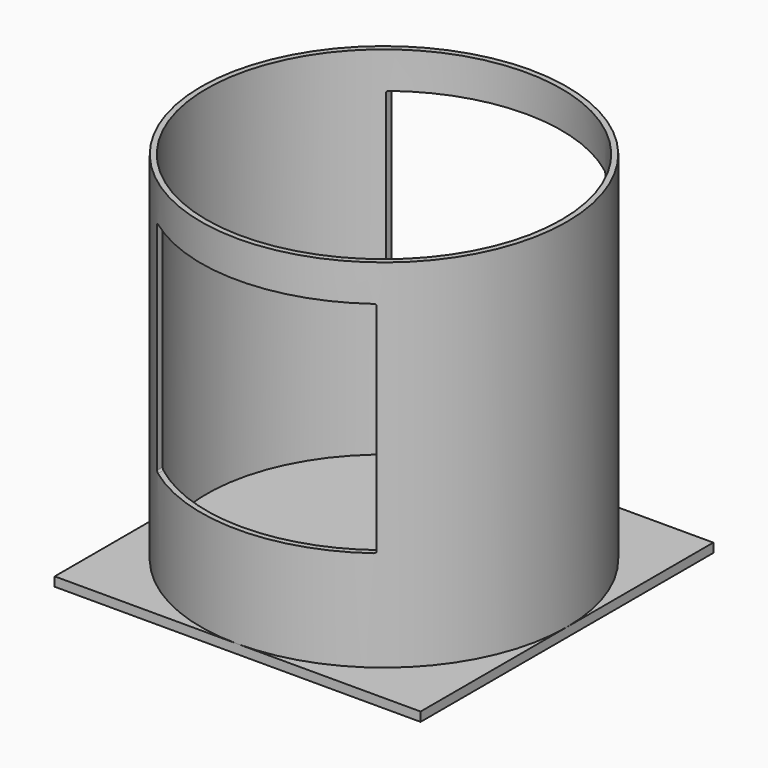
from build123d import *

# Parameters (mm, degrees)
F0_R     = 500
F0_R_2   = 485
F2_DEPTH = 1000
F5_DEPTH = 500
F3_W     = 1000
F3_H     = 1000
F6_DEPTH = 25


with BuildPart() as f2:
    # F0 (on Top) → F2 (new body)
    with BuildSketch(Plane.XY):
        Circle(F0_R)
        Circle(F0_R_2, mode=Mode.SUBTRACT)
    extrude(amount=F2_DEPTH)

    # F4 (on Front) → F5 (cut, symmetric)
    with BuildSketch(Plane.XZ):
        with BuildLine():
            Line((295, 900), (-295, 900))
            ThreePointArc((-295, 900), (-298.535534, 898.535534), (-300, 895))
            Line((-300, 895), (-300, 305))
            ThreePointArc((-300, 305), (-298.535534, 301.464466), (-295, 300))
            Line((-295, 300), (295, 300))
            ThreePointArc((295, 300), (298.535534, 301.464466), (300, 305))
            Line((300, 305), (300, 895))
            ThreePointArc((300, 895), (298.535534, 898.535534), (295, 900))
        make_face()
    extrude(amount=F5_DEPTH, both=True, mode=Mode.SUBTRACT)


with BuildPart() as f6:
    # F3 (on face) → F6 (new body)
    with BuildSketch(Plane.XY):
        Rectangle(F3_W, F3_H)
    extrude(amount=F6_DEPTH)


solid = Compound([f2.part, f6.part])
